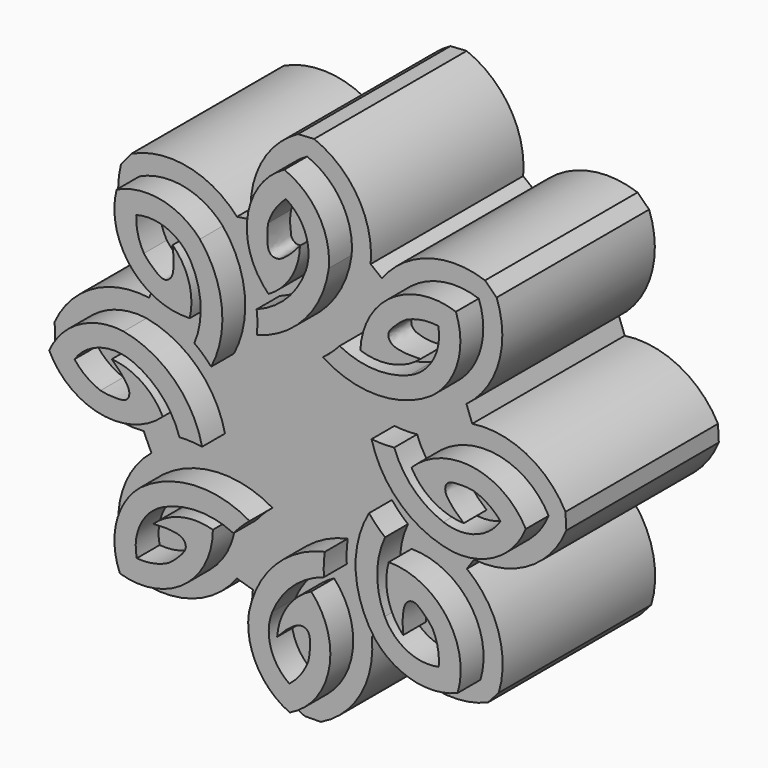
from build123d import *

# Parameters (mm, degrees)
F1_DEPTH = 23
F2_DEPTH = 20


with BuildPart() as f1:
    # F0 (on Front) → F1 (new body)
    with BuildSketch(Plane.XZ):
        with BuildLine():
            ThreePointArc((-64.3549468918, 56.5648522554), (-68.4360485772, 58.888041485), (-73.0957903346, 58.3054559398))
            ThreePointArc((-73.0957903346, 58.3054559398), (-71.6241454238, 51.6764643956), (-65.4199584668, 48.916512976))
            ThreePointArc((-65.4199584668, 48.916512976), (-65.502186631, 52.2437666056), (-67.2194117405, 55.0948218682))
            add(Edge.make_bspline(
                [(-70.2311276866, 53.3393559664), (-69.8622312811, 52.8603669435), (-69.526667638, 52.5674232072), (-68.5128184759, 51.6198789657), (-67.7783956581, 51.5966977279), (-67.2146615194, 52.1502060687), (-67.1169037523, 53.0544288165), (-67.0871053762, 53.9306180763), (-67.1738162605, 54.6878613143), (-67.2194117405, 55.0948218682)],
                knots=[0, 0, 0, 0, 0.1596659756, 0.3227090771, 0.4414833311, 0.5641742699, 0.7020232023, 0.8404935325, 1, 1, 1, 1], degree=3))
            ThreePointArc((-70.2311276866, 53.3393559664), (-70.8650831582, 54.9292759247), (-71.0332018769, 56.6326493746))
            ThreePointArc((-71.0332018769, 56.6326493746), (-67.6941613768, 56.3818522667), (-65.2483951151, 54.0948634073))
            ThreePointArc((-65.2483951151, 54.0948634073), (-64.2777215973, 50.4687180402), (-64.9323854902, 46.7724290243))
            ThreePointArc((-64.9323854902, 46.7724290243), (-64.0109267261, 46.017040119), (-63.1755998545, 45.1673768506))
            ThreePointArc((-63.1755998545, 45.1673768506), (-62.0515601175, 51.0434400202), (-64.3549468918, 56.5648522554))
        make_face()
    extrude(amount=F1_DEPTH)


with BuildPart() as f1b:
    # F0 (on Front) → F1, piece 2 (new body)
    with BuildSketch(Plane.XZ):
        with BuildLine():
            ThreePointArc((-72.3520576234, 45.4437083664), (-76.971680143, 44.6000929688), (-80.1667706526, 41.1585822833))
            ThreePointArc((-80.1667706526, 41.1585822833), (-74.7783916171, 37.0264352618), (-68.2516460987, 38.9001643177))
            ThreePointArc((-68.2516460987, 38.9001643177), (-70.4533539344, 41.3961332265), (-73.6014476844, 42.476357244))
            add(Edge.make_bspline(
                [(-74.7801642184, 39.1956986508), (-74.1896849677, 39.0658938102), (-73.7443276996, 39.0571820409), (-72.3586044847, 38.9830107196), (-71.7811033538, 39.4373307487), (-71.7050462527, 40.2237040569), (-72.2113826372, 40.9792163496), (-72.7517593567, 41.6695702902), (-73.3049303186, 42.1939155827), (-73.6014476844, 42.476357244)],
                knots=[0, 0, 0, 0, 0.1596659756, 0.3227090771, 0.4414833311, 0.5641742699, 0.7020232023, 0.8404935325, 1, 1, 1, 1], degree=3))
            ThreePointArc((-74.7801642184, 39.1956986508), (-76.2877831341, 40.0061492775), (-77.5114768926, 41.2029444141))
            ThreePointArc((-77.5114768926, 41.2029444141), (-74.7924141987, 43.1571165449), (-71.4488004424, 42.9772896869))
            ThreePointArc((-71.4488004424, 42.9772896869), (-68.3743800751, 40.8234380888), (-66.4999529312, 37.5711065892))
            ThreePointArc((-66.4999529312, 37.5711065892), (-65.3085199365, 37.5847473923), (-64.122469407, 37.4708053301))
            ThreePointArc((-64.122469407, 37.4708053301), (-67.0384656118, 42.6946496843), (-72.3520576234, 45.4437083664))
        make_face()
    extrude(amount=F1_DEPTH)


with BuildPart() as f1c:
    # F0 (on Front) → F1, piece 3 (new body)
    with BuildSketch(Plane.XZ):
        with BuildLine():
            ThreePointArc((-70.5804079944, 31.6100940805), (-73.1009907488, 27.6478646902), (-72.7476807898, 22.9651548726))
            ThreePointArc((-72.7476807898, 22.9651548726), (-66.054480794, 24.1098563415), (-62.9935179572, 30.1711906953))
            ThreePointArc((-62.9935179572, 30.1711906953), (-66.3207997015, 30.2522732517), (-69.2526578226, 28.6769681559))
            add(Edge.make_bspline(
                [(-67.6470388563, 25.582766933), (-67.1505309802, 25.92772341), (-66.8414794967, 26.2485133284), (-65.8453435994, 27.2146621199), (-65.786164634, 27.9470637141), (-66.3113538051, 28.537270455), (-67.2096927187, 28.6792653667), (-68.0833655029, 28.7520075722), (-68.8439505824, 28.7025461159), (-69.2526578226, 28.6769681559)],
                knots=[0, 0, 0, 0, 0.1596659756, 0.3227090771, 0.4414833311, 0.5641742699, 0.7020232023, 0.8404935325, 1, 1, 1, 1], degree=3))
            ThreePointArc((-67.6470388563, 25.582766933), (-69.2661422434, 25.0275649559), (-70.9757118597, 24.9432041798))
            ThreePointArc((-70.9757118597, 24.9432041798), (-70.5614267533, 28.2659227205), (-68.1572188792, 30.5965610769))
            ThreePointArc((-68.1572188792, 30.5965610769), (-64.4878243107, 31.3881928109), (-60.8280981905, 30.5530029962))
            ThreePointArc((-60.8280981905, 30.5530029962), (-60.0284183336, 31.4362984047), (-59.1388026298, 32.228941169))
            ThreePointArc((-59.1388026298, 32.228941169), (-64.9526545552, 33.639866218), (-70.5804079944, 31.6100940805))
        make_face()
    extrude(amount=F1_DEPTH)


with BuildPart() as f1d:
    # F0 (on Front) → F1, piece 4 (new body)
    with BuildSketch(Plane.XZ):
        with BuildLine():
            ThreePointArc((-59.2177931695, 23.7239437749), (-58.3741777719, 19.1043212553), (-54.9326670864, 15.9092307457))
            ThreePointArc((-54.9326670864, 15.9092307457), (-50.8005200649, 21.2976097812), (-52.6742491208, 27.8243552996))
            ThreePointArc((-52.6742491208, 27.8243552996), (-55.1702180295, 25.6226474639), (-56.250442047, 22.4745537139))
            add(Edge.make_bspline(
                [(-52.9697834538, 21.2958371799), (-52.8399786133, 21.8863164306), (-52.831266844, 22.3316736987), (-52.7570955227, 23.7173969136), (-53.2114155518, 24.2948980445), (-53.99778886, 24.3709551456), (-54.7533011527, 23.8646187611), (-55.4436550933, 23.3242420416), (-55.9680003858, 22.7710710797), (-56.250442047, 22.4745537139)],
                knots=[0, 0, 0, 0, 0.1596659756, 0.3227090771, 0.4414833311, 0.5641742699, 0.7020232023, 0.8404935325, 1, 1, 1, 1], degree=3))
            ThreePointArc((-52.9697834538, 21.2958371799), (-53.7802340806, 19.7882182642), (-54.9770292172, 18.5645245057))
            ThreePointArc((-54.9770292172, 18.5645245057), (-56.931201348, 21.2835871996), (-56.75137449, 24.6272009559))
            ThreePointArc((-56.75137449, 24.6272009559), (-54.5975228919, 27.7016213232), (-51.3451913922, 29.5760484671))
            ThreePointArc((-51.3451913922, 29.5760484671), (-51.3588321954, 30.7674814618), (-51.2448901332, 31.9535319913))
            ThreePointArc((-51.2448901332, 31.9535319913), (-56.4687344874, 29.0375357865), (-59.2177931695, 23.7239437749))
        make_face()
    extrude(amount=F1_DEPTH)


with BuildPart() as f1e:
    # F0 (on Front) → F1, piece 5 (new body)
    with BuildSketch(Plane.XZ):
        with BuildLine():
            ThreePointArc((-45.9680527438, 25.5941913592), (-42.0013387975, 23.0806719877), (-37.3192658936, 23.4423244262))
            ThreePointArc((-37.3192658936, 23.4423244262), (-38.4758906144, 30.1334743193), (-44.5426689712, 33.1836330046))
            ThreePointArc((-44.5426689712, 33.1836330046), (-44.6178232832, 29.8562120789), (-43.0372970862, 26.9271652839))
            add(Edge.make_bspline(
                [(-39.9459614564, 28.5382945451), (-40.2918019987, 29.0341870348), (-40.6131420355, 29.3426664862), (-41.5810640783, 30.3370794448), (-42.3135699473, 30.3949534189), (-42.902840038, 29.8687135282), (-43.0432341815, 28.9701230525), (-43.1144196756, 28.0963220524), (-43.0636031867, 27.335826304), (-43.0372970862, 26.9271652839)],
                knots=[0, 0, 0, 0, 0.1596659756, 0.3227090771, 0.4414833311, 0.5641742699, 0.7020232023, 0.8404935325, 1, 1, 1, 1], degree=3))
            ThreePointArc((-39.9459614564, 28.5382945451), (-39.3878756537, 26.9201829141), (-39.3004691238, 25.2107663142))
            ThreePointArc((-39.3004691238, 25.2107663142), (-42.6239205099, 25.6191307775), (-44.9588386704, 28.019182409))
            ThreePointArc((-44.9588386704, 28.019182409), (-45.7570067955, 31.6871607275), (-44.928338728, 35.3483690712))
            ThreePointArc((-44.928338728, 35.3483690712), (-45.8130574995, 36.1464739185), (-46.6072840067, 37.0346759831))
            ThreePointArc((-46.6072840067, 37.0346759831), (-48.0078484551, 31.2183194836), (-45.9680527438, 25.5941913592))
        make_face()
    extrude(amount=F1_DEPTH)


with BuildPart() as f1f:
    # F0 (on Front) → F1, piece 6 (new body)
    with BuildSketch(Plane.XZ):
        with BuildLine():
            ThreePointArc((-37.803073909, 36.3204473309), (-33.2210610955, 37.3489208307), (-30.1667706526, 40.9159797107))
            ThreePointArc((-30.1667706526, 40.9159797107), (-35.7167622004, 44.8283781382), (-42.1629865662, 42.6940259968))
            ThreePointArc((-42.1629865662, 42.6940259968), (-39.8628091358, 40.2884986168), (-36.6738702324, 39.3355836903))
            add(Edge.make_bspline(
                [(-35.627866487, 42.6609362486), (-36.2230826765, 42.7669208223), (-36.6684304932, 42.7577385929), (-38.0560145715, 42.776195), (-38.6148027934, 42.2990472576), (-38.6592152642, 41.5102537517), (-38.1229436402, 40.7756871421), (-37.5552761146, 40.107593479), (-36.981492107, 39.6058883749), (-36.6738702324, 39.3355836903)],
                knots=[0, 0, 0, 0, 0.1596659756, 0.3227090771, 0.4414833311, 0.5641742699, 0.7020232023, 0.8404935325, 1, 1, 1, 1], degree=3))
            ThreePointArc((-35.627866487, 42.6609362486), (-34.0889137342, 41.9116903356), (-32.8181402202, 40.7650083005))
            ThreePointArc((-32.8181402202, 40.7650083005), (-35.4565232025, 38.7032066882), (-38.8046615295, 38.748598248))
            ThreePointArc((-38.8046615295, 38.748598248), (-41.9631068056, 40.7772334393), (-43.9666455522, 43.9516577638))
            ThreePointArc((-43.9666455522, 43.9516577638), (-45.1565693612, 43.8901762147), (-46.3462391832, 43.9563907655))
            ThreePointArc((-46.3462391832, 43.9563907655), (-43.2227895334, 38.8538770724), (-37.803073909, 36.3204473309))
        make_face()
    extrude(amount=F1_DEPTH)


with BuildPart() as f1g:
    # F0 (on Front) → F1, piece 7 (new body)
    with BuildSketch(Plane.XZ):
        with BuildLine():
            ThreePointArc((-39.995031957, 50.0422348), (-37.3249917153, 53.9053273786), (-37.4992370927, 58.5981130876))
            ThreePointArc((-37.4992370927, 58.5981130876), (-44.231265628, 57.7098229118), (-47.5214451216, 51.7697903751))
            ThreePointArc((-47.5214451216, 51.7697903751), (-44.1996860398, 51.5617163749), (-41.2098138734, 53.0239210854))
            add(Edge.make_bspline(
                [(-42.6961113571, 56.1771754777), (-43.2054291224, 55.8514294783), (-43.5265044179, 55.5426744852), (-44.5588057443, 54.6152672473), (-44.6459079366, 53.8856595081), (-44.1436385298, 53.2758291174), (-43.2513767734, 53.099635143), (-42.3811187778, 52.9935852329), (-41.6191997274, 53.0139680593), (-41.2098138734, 53.0239210854)],
                knots=[0, 0, 0, 0, 0.1596659756, 0.3227090771, 0.4414833311, 0.5641742699, 0.7020232023, 0.8404935325, 1, 1, 1, 1], degree=3))
            ThreePointArc((-42.6961113571, 56.1771754777), (-41.0569886644, 56.6701479024), (-39.3454445529, 56.6891681004))
            ThreePointArc((-39.3454445529, 56.6891681004), (-39.8863038569, 53.3846920657), (-42.3777526084, 51.1475568957))
            ThreePointArc((-42.3777526084, 51.1475568957), (-46.074699169, 50.4966164765), (-49.6998649714, 51.4709419902))
            ThreePointArc((-49.6998649714, 51.4709419902), (-50.5326898168, 50.618826136), (-51.451923394, 49.8607309686))
            ThreePointArc((-51.451923394, 49.8607309686), (-45.6961869369, 48.2288358921), (-39.995031957, 50.0422348))
        make_face()
    extrude(amount=F1_DEPTH)


with BuildPart() as f1h:
    # F0 (on Front) → F1, piece 8 (new body)
    with BuildSketch(Plane.XZ):
        with BuildLine():
            ThreePointArc((-50.831814149, 58.2723333356), (-51.9072757817, 62.8435455861), (-55.5055042705, 65.8610529855))
            ThreePointArc((-55.5055042705, 65.8610529855), (-59.3607161726, 60.2711863659), (-57.1602948061, 53.8472145846))
            ThreePointArc((-57.1602948061, 53.8472145846), (-54.7785095335, 56.1719677117), (-53.8583848389, 59.3705218746))
            add(Edge.make_bspline(
                [(-57.194301186, 60.3823299582), (-57.2941692435, 59.7860570231), (-57.2804152274, 59.3408269497), (-57.2846246957, 57.9531265161), (-56.8017651672, 57.3992664969), (-56.0125572629, 57.3629547053), (-55.2835351299, 57.9067396705), (-54.6213047736, 58.481236422), (-54.1255170032, 59.060141065), (-53.8583848389, 59.3705218746)],
                knots=[0, 0, 0, 0, 0.1596659756, 0.3227090771, 0.4414833311, 0.5641742699, 0.7020232023, 0.8404935325, 1, 1, 1, 1], degree=3))
            ThreePointArc((-57.194301186, 60.3823299582), (-56.4608947905, 61.9288939151), (-55.327319893, 63.2113731411))
            ThreePointArc((-55.327319893, 63.2113731411), (-53.2385393523, 60.5942971958), (-53.2495540514, 57.245869307))
            ThreePointArc((-53.2495540514, 57.245869307), (-55.2456553856, 54.066763023), (-58.3993425911, 52.0307388799))
            ThreePointArc((-58.3993425911, 52.0307388799), (-58.3256476429, 50.8415090002), (-58.3796446722, 49.6512220713))
            ThreePointArc((-58.3796446722, 49.6512220713), (-53.3094675519, 52.8268932874), (-50.831814149, 58.2723333356))
        make_face()
    extrude(amount=F1_DEPTH)


with BuildPart() as f2:
    # F0 (on Front) → F2 (new body)
    with BuildSketch(Plane.XZ):
        with BuildLine():
            Line((-54.7694231979, 67.7206728318), (-56.4646091507, 67.6160784454))
            ThreePointArc((-56.4646091507, 67.6160784454), (-60.3664317645, 63.6225267377), (-61.3662119721, 58.1295207766))
            Line((-61.3662119721, 58.1295207766), (-62.867732274, 57.9020854739))
            ThreePointArc((-62.867732274, 57.9020854739), (-68.0454487728, 60.849528623), (-73.9572891623, 60.1103990885))
            Line((-73.9572891623, 60.1103990885), (-75.0343907325, 58.7972165493))
            ThreePointArc((-75.0343907325, 58.7972165493), (-74.7857218399, 53.2814748783), (-71.5238699309, 48.8266387956))
            Line((-71.5238699309, 48.8266387956), (-72.0723420737, 47.4240515718))
            ThreePointArc((-72.0723420737, 47.4240515718), (-77.9332829622, 46.3537520058), (-81.9869121344, 41.9874881803))
            Line((-81.9869121344, 41.9874881803), (-81.9679223416, 40.2891844496))
            ThreePointArc((-81.9679223416, 40.2891844496), (-78.1363639022, 36.1679133411), (-72.6487822837, 34.9220547595))
            Line((-72.6487822837, 34.9220547595), (-71.8430791007, 33.1611136411))
            ThreePointArc((-71.8430791007, 33.1611136411), (-75.0409565172, 28.1342110869), (-74.5927101991, 22.1932309912))
            Line((-74.5927101991, 22.1932309912), (-73.333943549, 21.0530105326))
            ThreePointArc((-73.333943549, 21.0530105326), (-67.5535584419, 21.1120088532), (-62.867732274, 24.4971773738))
            Line((-62.867732274, 24.4971773738), (-61.1981363749, 24.0036593246))
            ThreePointArc((-61.1981363749, 24.0036593246), (-60.1278368089, 18.1427184361), (-55.7615729834, 14.0890892639))
            Line((-55.7615729834, 14.0890892639), (-54.0632692527, 14.1080790567))
            ThreePointArc((-54.0632692527, 14.1080790567), (-49.8656607043, 18.0747121378), (-48.724736761, 23.7361949896))
            Line((-48.724736761, 23.7361949896), (-47.5168201804, 24.3287588531))
            ThreePointArc((-47.5168201804, 24.3287588531), (-42.4842280449, 21.13984279), (-36.5440560052, 21.5986732583))
            Line((-36.5440560052, 21.5986732583), (-35.4060800622, 22.8594694063))
            ThreePointArc((-35.4060800622, 22.8594694063), (-35.4511329711, 28.5654894399), (-38.7439509233, 33.225751699))
            Line((-38.7439509233, 33.225751699), (-38.0030268607, 34.3304677288))
            ThreePointArc((-38.0030268607, 34.3304677288), (-32.1898016164, 35.6352978013), (-28.3148062751, 40.1608453222))
            Line((-28.3148062751, 40.1608453222), (-28.4019900449, 41.8570160578))
            ThreePointArc((-28.4019900449, 41.8570160578), (-32.5109742707, 45.8802965318), (-38.185686911, 46.8120548647))
            Line((-38.185686911, 46.8120548647), (-38.7925066094, 48.4441319284))
            ThreePointArc((-38.7925066094, 48.4441319284), (-35.405011644, 53.3452590559), (-35.6260777274, 59.2990224914))
            Line((-35.6260777274, 59.2990224914), (-36.8403876231, 60.4864767646))
            ThreePointArc((-36.8403876231, 60.4864767646), (-42.7960917867, 60.5954530999), (-47.6562024088, 57.1513838981))
            Line((-47.6562024088, 57.1513838981), (-48.8398862341, 58.0928214975))
            ThreePointArc((-48.8398862341, 58.0928214975), (-50.204330461, 63.8923442096), (-54.7694231979, 67.7206728318))
        make_face()
        with BuildLine():
            ThreePointArc((-62.9935179572, 30.1711906953), (-66.054480794, 24.1098563415), (-72.7476807898, 22.9651548726))
            ThreePointArc((-72.7476807898, 22.9651548726), (-73.1009907488, 27.6478646902), (-70.5804079944, 31.6100940805))
            ThreePointArc((-70.5804079944, 31.6100940805), (-64.9526545552, 33.639866218), (-59.1388026298, 32.228941169))
            ThreePointArc((-59.1388026298, 32.228941169), (-60.0284183336, 31.4362984047), (-60.8280981905, 30.5530029962))
            ThreePointArc((-60.8280981905, 30.5530029962), (-64.4878243107, 31.3881928109), (-68.1572188792, 30.5965610769))
            ThreePointArc((-68.1572188792, 30.5965610769), (-70.5614267533, 28.2659227205), (-70.9757118597, 24.9432041798))
            ThreePointArc((-70.9757118597, 24.9432041798), (-69.2661422434, 25.0275649559), (-67.6470388563, 25.582766933))
            add(Edge.make_bspline(
                [(-67.6470388563, 25.582766933), (-67.1505309802, 25.92772341), (-66.8414794967, 26.2485133284), (-65.8453435994, 27.2146621199), (-65.786164634, 27.9470637141), (-66.3113538051, 28.537270455), (-67.2096927187, 28.6792653667), (-68.0833655029, 28.7520075722), (-68.8439505824, 28.7025461159), (-69.2526578226, 28.6769681559)],
                knots=[0, 0, 0, 0, 0.1596659756, 0.3227090771, 0.4414833311, 0.5641742699, 0.7020232023, 0.8404935325, 1, 1, 1, 1], degree=3))
            ThreePointArc((-69.2526578226, 28.6769681559), (-66.3207997015, 30.2522732517), (-62.9935179572, 30.1711906953))
        make_face(mode=Mode.SUBTRACT)
        with BuildLine():
            ThreePointArc((-52.6742491208, 27.8243552996), (-50.8005200649, 21.2976097812), (-54.9326670864, 15.9092307457))
            ThreePointArc((-54.9326670864, 15.9092307457), (-58.3741777719, 19.1043212553), (-59.2177931695, 23.7239437749))
            ThreePointArc((-59.2177931695, 23.7239437749), (-56.4687344874, 29.0375357865), (-51.2448901332, 31.9535319913))
            ThreePointArc((-51.2448901332, 31.9535319913), (-51.3588321954, 30.7674814618), (-51.3451913922, 29.5760484671))
            ThreePointArc((-51.3451913922, 29.5760484671), (-54.5975228919, 27.7016213232), (-56.75137449, 24.6272009559))
            ThreePointArc((-56.75137449, 24.6272009559), (-56.931201348, 21.2835871996), (-54.9770292172, 18.5645245057))
            ThreePointArc((-54.9770292172, 18.5645245057), (-53.7802340806, 19.7882182642), (-52.9697834538, 21.2958371799))
            add(Edge.make_bspline(
                [(-52.9697834538, 21.2958371799), (-52.8399786133, 21.8863164306), (-52.831266844, 22.3316736987), (-52.7570955227, 23.7173969136), (-53.2114155518, 24.2948980445), (-53.99778886, 24.3709551456), (-54.7533011527, 23.8646187611), (-55.4436550933, 23.3242420416), (-55.9680003858, 22.7710710797), (-56.250442047, 22.4745537139)],
                knots=[0, 0, 0, 0, 0.1596659756, 0.3227090771, 0.4414833311, 0.5641742699, 0.7020232023, 0.8404935325, 1, 1, 1, 1], degree=3))
            ThreePointArc((-56.250442047, 22.4745537139), (-55.1702180295, 25.6226474639), (-52.6742491208, 27.8243552996))
        make_face(mode=Mode.SUBTRACT)
        with BuildLine():
            ThreePointArc((-44.5426689712, 33.1836330046), (-38.4758906144, 30.1334743193), (-37.3192658936, 23.4423244262))
            ThreePointArc((-37.3192658936, 23.4423244262), (-42.0013387975, 23.0806719877), (-45.9680527438, 25.5941913592))
            ThreePointArc((-45.9680527438, 25.5941913592), (-48.0078484551, 31.2183194836), (-46.6072840067, 37.0346759831))
            ThreePointArc((-46.6072840067, 37.0346759831), (-45.8130574995, 36.1464739185), (-44.928338728, 35.3483690712))
            ThreePointArc((-44.928338728, 35.3483690712), (-45.7570067955, 31.6871607275), (-44.9588386704, 28.019182409))
            ThreePointArc((-44.9588386704, 28.019182409), (-42.6239205099, 25.6191307775), (-39.3004691238, 25.2107663142))
            ThreePointArc((-39.3004691238, 25.2107663142), (-39.3878756537, 26.9201829141), (-39.9459614564, 28.5382945451))
            add(Edge.make_bspline(
                [(-39.9459614564, 28.5382945451), (-40.2918019987, 29.0341870348), (-40.6131420355, 29.3426664862), (-41.5810640783, 30.3370794448), (-42.3135699473, 30.3949534189), (-42.902840038, 29.8687135282), (-43.0432341815, 28.9701230525), (-43.1144196756, 28.0963220524), (-43.0636031867, 27.335826304), (-43.0372970862, 26.9271652839)],
                knots=[0, 0, 0, 0, 0.1596659756, 0.3227090771, 0.4414833311, 0.5641742699, 0.7020232023, 0.8404935325, 1, 1, 1, 1], degree=3))
            ThreePointArc((-43.0372970862, 26.9271652839), (-44.6178232832, 29.8562120789), (-44.5426689712, 33.1836330046))
        make_face(mode=Mode.SUBTRACT)
        with BuildLine():
            ThreePointArc((-42.1629865662, 42.6940259968), (-35.7167622004, 44.8283781382), (-30.1667706526, 40.9159797107))
            ThreePointArc((-30.1667706526, 40.9159797107), (-33.2210610955, 37.3489208307), (-37.803073909, 36.3204473309))
            ThreePointArc((-37.803073909, 36.3204473309), (-43.2227895334, 38.8538770724), (-46.3462391832, 43.9563907655))
            ThreePointArc((-46.3462391832, 43.9563907655), (-45.1565693612, 43.8901762147), (-43.9666455522, 43.9516577638))
            ThreePointArc((-43.9666455522, 43.9516577638), (-41.9631068056, 40.7772334393), (-38.8046615295, 38.748598248))
            ThreePointArc((-38.8046615295, 38.748598248), (-35.4565232025, 38.7032066882), (-32.8181402202, 40.7650083005))
            ThreePointArc((-32.8181402202, 40.7650083005), (-34.0889137342, 41.9116903356), (-35.627866487, 42.6609362486))
            add(Edge.make_bspline(
                [(-35.627866487, 42.6609362486), (-36.2230826765, 42.7669208223), (-36.6684304932, 42.7577385929), (-38.0560145715, 42.776195), (-38.6148027934, 42.2990472576), (-38.6592152642, 41.5102537517), (-38.1229436402, 40.7756871421), (-37.5552761146, 40.107593479), (-36.981492107, 39.6058883749), (-36.6738702324, 39.3355836903)],
                knots=[0, 0, 0, 0, 0.1596659756, 0.3227090771, 0.4414833311, 0.5641742699, 0.7020232023, 0.8404935325, 1, 1, 1, 1], degree=3))
            ThreePointArc((-36.6738702324, 39.3355836903), (-39.8628091358, 40.2884986168), (-42.1629865662, 42.6940259968))
        make_face(mode=Mode.SUBTRACT)
        with BuildLine():
            ThreePointArc((-68.2516460987, 38.9001643177), (-74.7783916171, 37.0264352618), (-80.1667706526, 41.1585822833))
            ThreePointArc((-80.1667706526, 41.1585822833), (-76.971680143, 44.6000929688), (-72.3520576234, 45.4437083664))
            ThreePointArc((-72.3520576234, 45.4437083664), (-67.0384656118, 42.6946496843), (-64.122469407, 37.4708053301))
            ThreePointArc((-64.122469407, 37.4708053301), (-65.3085199365, 37.5847473923), (-66.4999529312, 37.5711065892))
            ThreePointArc((-66.4999529312, 37.5711065892), (-68.3743800751, 40.8234380888), (-71.4488004424, 42.9772896869))
            ThreePointArc((-71.4488004424, 42.9772896869), (-74.7924141987, 43.1571165449), (-77.5114768926, 41.2029444141))
            ThreePointArc((-77.5114768926, 41.2029444141), (-76.2877831341, 40.0061492775), (-74.7801642184, 39.1956986508))
            add(Edge.make_bspline(
                [(-74.7801642184, 39.1956986508), (-74.1896849677, 39.0658938102), (-73.7443276996, 39.0571820409), (-72.3586044847, 38.9830107196), (-71.7811033538, 39.4373307487), (-71.7050462527, 40.2237040569), (-72.2113826372, 40.9792163496), (-72.7517593567, 41.6695702902), (-73.3049303186, 42.1939155827), (-73.6014476844, 42.476357244)],
                knots=[0, 0, 0, 0, 0.1596659756, 0.3227090771, 0.4414833311, 0.5641742699, 0.7020232023, 0.8404935325, 1, 1, 1, 1], degree=3))
            ThreePointArc((-73.6014476844, 42.476357244), (-70.4533539344, 41.3961332265), (-68.2516460987, 38.9001643177))
        make_face(mode=Mode.SUBTRACT)
        with BuildLine():
            ThreePointArc((-65.4199584668, 48.916512976), (-71.6241454238, 51.6764643956), (-73.0957903346, 58.3054559398))
            ThreePointArc((-73.0957903346, 58.3054559398), (-68.4360485772, 58.888041485), (-64.3549468918, 56.5648522554))
            ThreePointArc((-64.3549468918, 56.5648522554), (-62.0515601175, 51.0434400202), (-63.1755998545, 45.1673768506))
            ThreePointArc((-63.1755998545, 45.1673768506), (-64.0109267261, 46.017040119), (-64.9323854902, 46.7724290243))
            ThreePointArc((-64.9323854902, 46.7724290243), (-64.2777215973, 50.4687180402), (-65.2483951151, 54.0948634073))
            ThreePointArc((-65.2483951151, 54.0948634073), (-67.6941613768, 56.3818522667), (-71.0332018769, 56.6326493746))
            ThreePointArc((-71.0332018769, 56.6326493746), (-70.8650831582, 54.9292759247), (-70.2311276866, 53.3393559664))
            add(Edge.make_bspline(
                [(-70.2311276866, 53.3393559664), (-69.8622312811, 52.8603669435), (-69.526667638, 52.5674232072), (-68.5128184759, 51.6198789657), (-67.7783956581, 51.5966977279), (-67.2146615194, 52.1502060687), (-67.1169037523, 53.0544288165), (-67.0871053762, 53.9306180763), (-67.1738162605, 54.6878613143), (-67.2194117405, 55.0948218682)],
                knots=[0, 0, 0, 0, 0.1596659756, 0.3227090771, 0.4414833311, 0.5641742699, 0.7020232023, 0.8404935325, 1, 1, 1, 1], degree=3))
            ThreePointArc((-67.2194117405, 55.0948218682), (-65.502186631, 52.2437666056), (-65.4199584668, 48.916512976))
        make_face(mode=Mode.SUBTRACT)
        with BuildLine():
            ThreePointArc((-47.5214451216, 51.7697903751), (-44.231265628, 57.7098229118), (-37.4992370927, 58.5981130876))
            ThreePointArc((-37.4992370927, 58.5981130876), (-37.3249917153, 53.9053273786), (-39.995031957, 50.0422348))
            ThreePointArc((-39.995031957, 50.0422348), (-45.6961869369, 48.2288358921), (-51.451923394, 49.8607309686))
            ThreePointArc((-51.451923394, 49.8607309686), (-50.5326898168, 50.618826136), (-49.6998649714, 51.4709419902))
            ThreePointArc((-49.6998649714, 51.4709419902), (-46.074699169, 50.4966164765), (-42.3777526084, 51.1475568957))
            ThreePointArc((-42.3777526084, 51.1475568957), (-39.8863038569, 53.3846920657), (-39.3454445529, 56.6891681004))
            ThreePointArc((-39.3454445529, 56.6891681004), (-41.0569886644, 56.6701479024), (-42.6961113571, 56.1771754777))
            add(Edge.make_bspline(
                [(-42.6961113571, 56.1771754777), (-43.2054291224, 55.8514294783), (-43.5265044179, 55.5426744852), (-44.5588057443, 54.6152672473), (-44.6459079366, 53.8856595081), (-44.1436385298, 53.2758291174), (-43.2513767734, 53.099635143), (-42.3811187778, 52.9935852329), (-41.6191997274, 53.0139680593), (-41.2098138734, 53.0239210854)],
                knots=[0, 0, 0, 0, 0.1596659756, 0.3227090771, 0.4414833311, 0.5641742699, 0.7020232023, 0.8404935325, 1, 1, 1, 1], degree=3))
            ThreePointArc((-41.2098138734, 53.0239210854), (-44.1996860398, 51.5617163749), (-47.5214451216, 51.7697903751))
        make_face(mode=Mode.SUBTRACT)
        with BuildLine():
            ThreePointArc((-57.1602948061, 53.8472145846), (-59.3607161726, 60.2711863659), (-55.5055042705, 65.8610529855))
            ThreePointArc((-55.5055042705, 65.8610529855), (-51.9072757817, 62.8435455861), (-50.831814149, 58.2723333356))
            ThreePointArc((-50.831814149, 58.2723333356), (-53.3094675519, 52.8268932874), (-58.3796446722, 49.6512220713))
            ThreePointArc((-58.3796446722, 49.6512220713), (-58.3256476429, 50.8415090002), (-58.3993425911, 52.0307388799))
            ThreePointArc((-58.3993425911, 52.0307388799), (-55.2456553856, 54.066763023), (-53.2495540514, 57.245869307))
            ThreePointArc((-53.2495540514, 57.245869307), (-53.2385393523, 60.5942971958), (-55.327319893, 63.2113731411))
            ThreePointArc((-55.327319893, 63.2113731411), (-56.4608947905, 61.9288939151), (-57.194301186, 60.3823299582))
            add(Edge.make_bspline(
                [(-57.194301186, 60.3823299582), (-57.2941692435, 59.7860570231), (-57.2804152274, 59.3408269497), (-57.2846246957, 57.9531265161), (-56.8017651672, 57.3992664969), (-56.0125572629, 57.3629547053), (-55.2835351299, 57.9067396705), (-54.6213047736, 58.481236422), (-54.1255170032, 59.060141065), (-53.8583848389, 59.3705218746)],
                knots=[0, 0, 0, 0, 0.1596659756, 0.3227090771, 0.4414833311, 0.5641742699, 0.7020232023, 0.8404935325, 1, 1, 1, 1], degree=3))
            ThreePointArc((-53.8583848389, 59.3705218746), (-54.7785095335, 56.1719677117), (-57.1602948061, 53.8472145846))
        make_face(mode=Mode.SUBTRACT)
    extrude(amount=F2_DEPTH)


solid = Compound([f1.part, f1b.part, f1c.part, f1d.part, f1e.part, f1f.part, f1g.part, f1h.part, f2.part])
